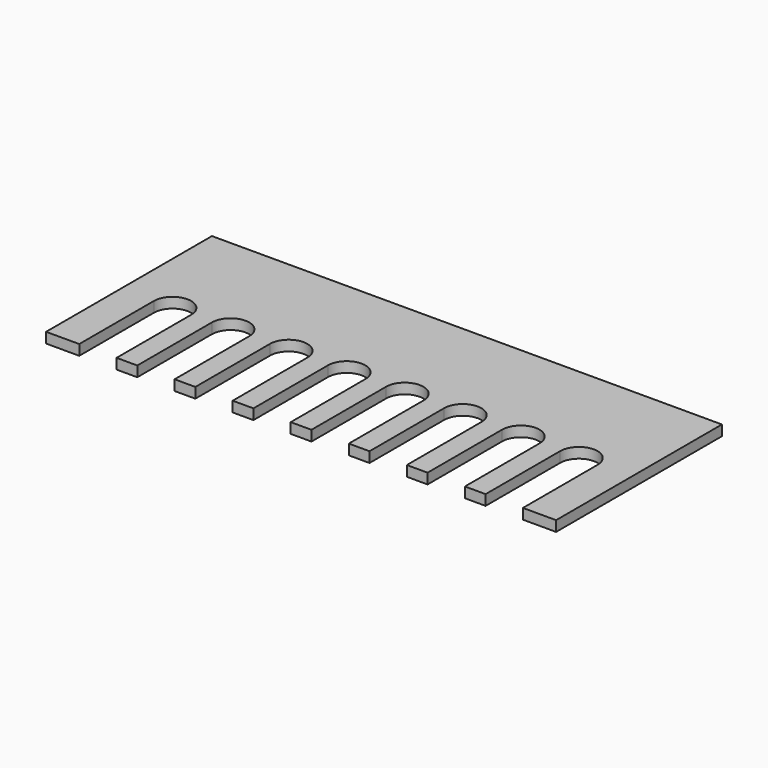
from build123d import *

# Parameters (mm, degrees)
F1_DEPTH = 5


with BuildPart() as f1:
    # F0 (on Top) → F1 (new body)
    with BuildSketch(Plane.XY):
        with BuildLine():
            Line((-171.635448, -70.591642), (-417.635441, -70.591642))
            Line((-417.635441, -70.591642), (-417.635441, -170.591642))
            Line((-417.635441, -170.591642), (-401.635441, -170.591642))
            Line((-401.635441, -170.591642), (-401.635441, -125.591642))
            ThreePointArc((-401.635441, -125.591642), (-392.635441, -116.591642), (-383.635441, -125.591642))
            Line((-383.635441, -125.591642), (-383.635441, -170.591642))
            Line((-383.635441, -170.591642), (-373.635441, -170.591642))
            Line((-373.635441, -170.591642), (-373.635441, -125.591642))
            ThreePointArc((-373.635441, -125.591642), (-364.635441, -116.591642), (-355.635441, -125.591642))
            Line((-355.635441, -125.591642), (-355.635441, -130.575008))
            Line((-355.635441, -130.575008), (-355.635441, -170.591642))
            Line((-355.635441, -170.591642), (-345.635441, -170.591642))
            Line((-345.635441, -170.591642), (-345.635441, -125.591642))
            ThreePointArc((-345.635441, -125.591642), (-336.643762, -116.583329), (-327.635448, -125.575008))
            Line((-327.635448, -125.575008), (-327.635448, -170.575008))
            Line((-327.635448, -170.575008), (-317.635448, -170.575008))
            Line((-317.635448, -170.575008), (-317.635448, -125.591642))
            ThreePointArc((-317.635448, -125.591642), (-308.635448, -116.591642), (-299.635448, -125.591642))
            Line((-299.635448, -125.591642), (-299.635448, -170.575008))
            Line((-299.635448, -170.575008), (-289.635448, -170.575008))
            Line((-289.635448, -170.575008), (-289.635448, -125.591642))
            ThreePointArc((-289.635448, -125.591642), (-280.635448, -116.591642), (-271.635448, -125.591642))
            Line((-271.635448, -125.591642), (-271.635448, -170.575008))
            Line((-271.635448, -170.575008), (-261.635448, -170.575008))
            Line((-261.635448, -170.575008), (-261.635448, -125.591642))
            ThreePointArc((-261.635448, -125.591642), (-252.635448, -116.591642), (-243.635448, -125.591642))
            Line((-243.635448, -125.591642), (-243.635448, -170.575008))
            Line((-243.635448, -170.575008), (-233.635448, -170.575008))
            Line((-233.635448, -170.575008), (-233.635448, -125.591642))
            ThreePointArc((-233.635448, -125.591642), (-224.635448, -116.591642), (-215.635448, -125.591642))
            Line((-215.635448, -125.591642), (-215.635448, -170.575008))
            Line((-215.635448, -170.575008), (-205.635448, -170.575008))
            Line((-205.635448, -170.575008), (-205.635448, -125.591642))
            ThreePointArc((-205.635448, -125.591642), (-196.635448, -116.591642), (-187.635448, -125.591642))
            Line((-187.635448, -125.591642), (-187.635448, -170.575008))
            Line((-187.635448, -170.575008), (-171.635448, -170.575008))
            Line((-171.635448, -170.575008), (-171.635448, -70.591642))
        make_face()
    extrude(amount=F1_DEPTH)


solid = f1.part
